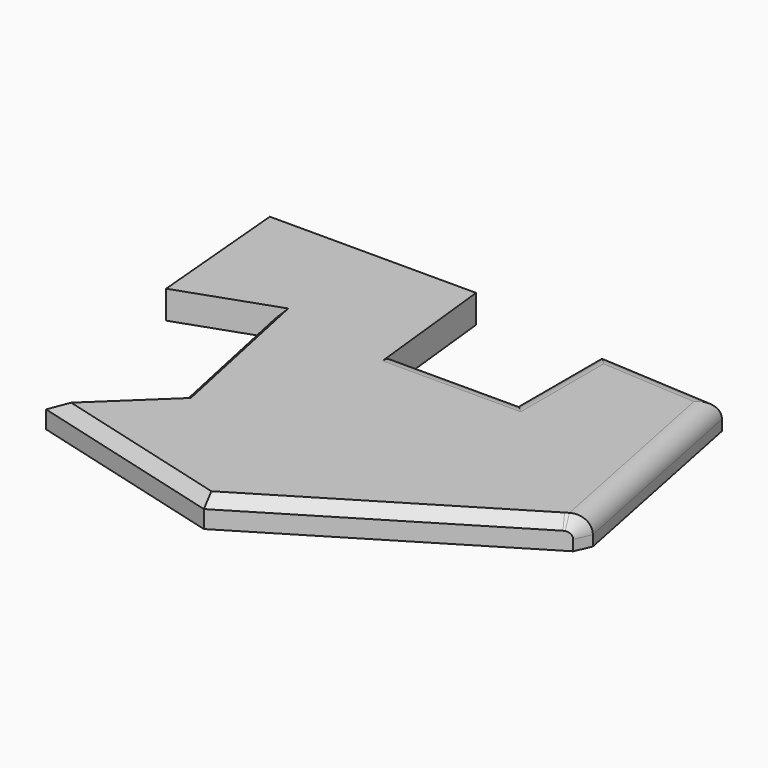
from build123d import *

# Parameters (mm, degrees)
PAD_DEPTH    = 8
FILLET_R     = 5
CHAMFER_SIZE = 3


with BuildPart() as part:
    # Sketch → Pad (new body)
    with BuildSketch(Plane.XY):
        Polygon((-46.734573, 12.37682), (-22.466158, 20.873907), (-12.919914, -24.196195), (-34.898476, -45.061794), (22.378998, -60.602196), (95.640884, -16.201052), (82.764542, 47.958603), (46.662025, 50.132896), (46.662025, 20.325462), (11.88671, 20.325462), (8.24356, 53.776024), (-50.377705, 53.776024), align=None)
    extrude(amount=PAD_DEPTH)

    # Fillet
    fillet_edges = [part.edges().sort_by_distance(p)[0] for p in [
        (29.274368, 20.325462, 8),
        (46.662025, 35.229179, 8),
        (64.713284, 49.045749, 8),
        (89.202713, 15.878775, 8),
    ]]
    fillet(fillet_edges, radius=FILLET_R)

    # Chamfer
    chamfer_edges = [part.edges().sort_by_distance(p)[0] for p in [
        (56.736601, -39.779406, 8),
        (-6.259739, -52.831995, 8),
        (-23.909195, -34.628995, 8),
        (-17.693036, -1.661144, 8),
    ]]
    chamfer(chamfer_edges, length=CHAMFER_SIZE)


solid = part.part
